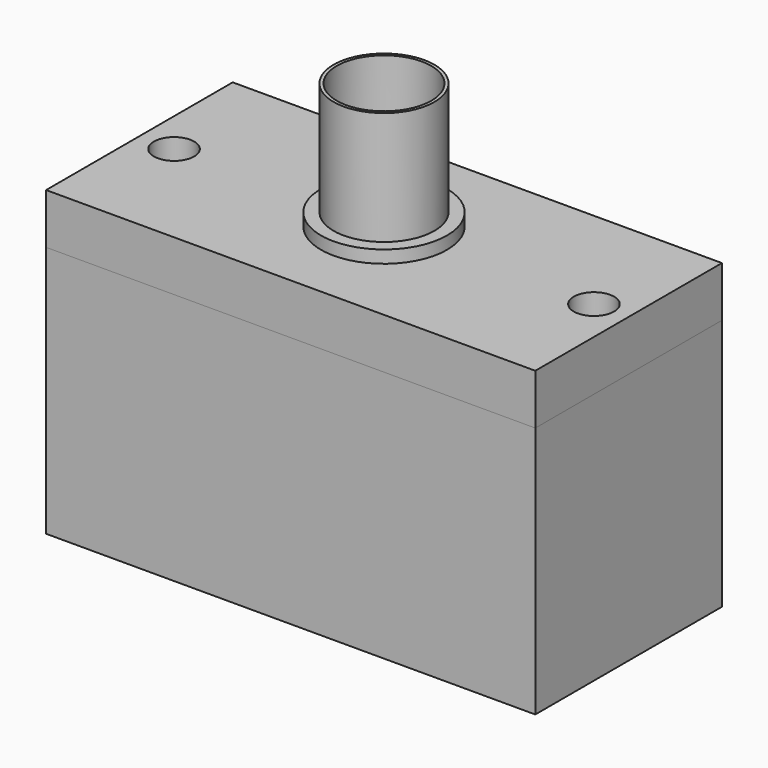
from build123d import *

# Parameters (mm, degrees)
F0_W      = 38.8
F0_H      = 18.5
F0_R      = 1.6
F1_DEPTH  = 20
F1_FACE_W = 38.8
F1_FACE_H = 18.5
F1_FACE_R = 1.6
F2_DEPTH  = 4
F4_DEPTH  = 10
F5_DEPTH  = 10
F6_R      = 4
F6_R_2    = 3.75
F7_DEPTH  = 10
F8_R      = 5
F9_DEPTH  = 1


with BuildPart() as f1:
    # F0 (on Top) → F1 (new body)
    with BuildSketch(Plane.XY):
        Rectangle(F0_W, F0_H)
        with Locations((-16.65, 0)):
            Circle(F0_R, mode=Mode.SUBTRACT)
        with Locations((16.65, 0)):
            Circle(F0_R, mode=Mode.SUBTRACT)
    extrude(amount=F1_DEPTH)

    # F3 (on face) → F4 (cut)
    with BuildSketch(Plane(origin=(0, 0, 0), x_dir=(1, 0, 0), z_dir=(0, 0, -1))):
        with BuildLine():
            Line((-8.525, -6.35), (8.525, -6.35))
            ThreePointArc((8.525, -6.35), (9.232107, -6.057107), (9.525, -5.35))
            Line((9.525, -5.35), (9.525, 5.35))
            ThreePointArc((9.525, 5.35), (9.232107, 6.057107), (8.525, 6.35))
            Line((8.525, 6.35), (-8.525, 6.35))
            ThreePointArc((-8.525, 6.35), (-9.232107, 6.057107), (-9.525, 5.35))
            Line((-9.525, 5.35), (-9.525, -5.35))
            ThreePointArc((-9.525, -5.35), (-9.232107, -6.057107), (-8.525, -6.35))
        make_face()
    extrude(amount=-F4_DEPTH, mode=Mode.SUBTRACT)


with BuildPart() as f2:
    # F1_face (on face) → F2 (new body)
    with BuildSketch(Plane.XY.offset(20)):
        Rectangle(F1_FACE_W, F1_FACE_H)
        with Locations((-16.65, 0)):
            Circle(F1_FACE_R, mode=Mode.SUBTRACT)
        with Locations((16.65, 0)):
            Circle(F1_FACE_R, mode=Mode.SUBTRACT)
    extrude(amount=F2_DEPTH)

    # F6 (on face) → F7 (join)
    with BuildSketch(Plane.XY.offset(24)):
        Circle(F6_R)
        Circle(F6_R_2, mode=Mode.SUBTRACT)
    extrude(amount=F7_DEPTH)

    # F8 (on face) → F9 (join)
    with BuildSketch(Plane.XY.offset(24)):
        Circle(F8_R)
    extrude(amount=F9_DEPTH)


with BuildPart() as f5:
    # F4_face (on face) → F5 (new body)
    with BuildSketch(Plane(origin=(0, 0, 10), x_dir=(1, 0, 0), z_dir=(0, 0, -1))):
        with BuildLine():
            Line((-9.525, 5.35), (-9.525, -5.35))
            ThreePointArc((-9.525, -5.35), (-9.232107, -6.057107), (-8.525, -6.35))
            Line((-8.525, -6.35), (8.525, -6.35))
            ThreePointArc((8.525, -6.35), (9.232107, -6.057107), (9.525, -5.35))
            Line((9.525, -5.35), (9.525, 5.35))
            ThreePointArc((9.525, 5.35), (9.232107, 6.057107), (8.525, 6.35))
            Line((8.525, 6.35), (-8.525, 6.35))
            ThreePointArc((-8.525, 6.35), (-9.232107, 6.057107), (-9.525, 5.35))
        make_face()
    extrude(amount=F5_DEPTH)


solid = Compound([f1.part, f2.part, f5.part])
